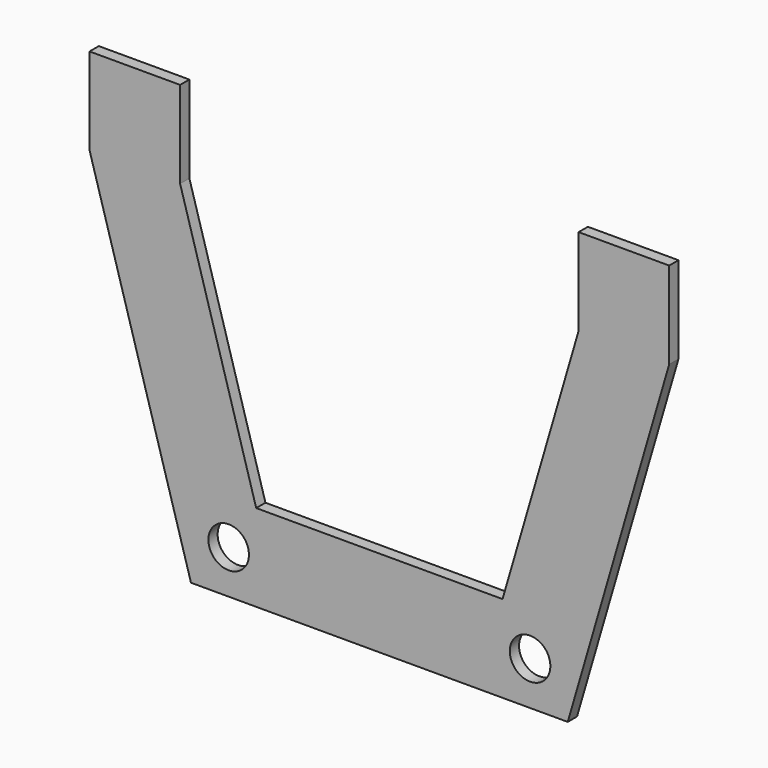
from build123d import *

# Parameters (mm, degrees)
F1_DEPTH = 2
F3_D     = 7


with BuildPart() as f1:
    # F0 (on Front) → F1 (new body)
    with BuildSketch(Plane.XZ):
        Polygon((-50, 22.5), (-32.5, -37.5), (32.5, -37.5), (50, 22.5), (50, 37.5), (34.375, 37.5), (34.375, 22.5), (21.25, -22.5), (-21.25, -22.5), (-34.375, 22.5), (-34.375, 37.5), (-50, 37.5), align=None)
    extrude(amount=F1_DEPTH)

    # F3 (through all)
    with Locations(Plane.XZ.offset(2)):
        with Locations((-26, -30), (26, -30)):
            Hole(F3_D / 2)


solid = f1.part
